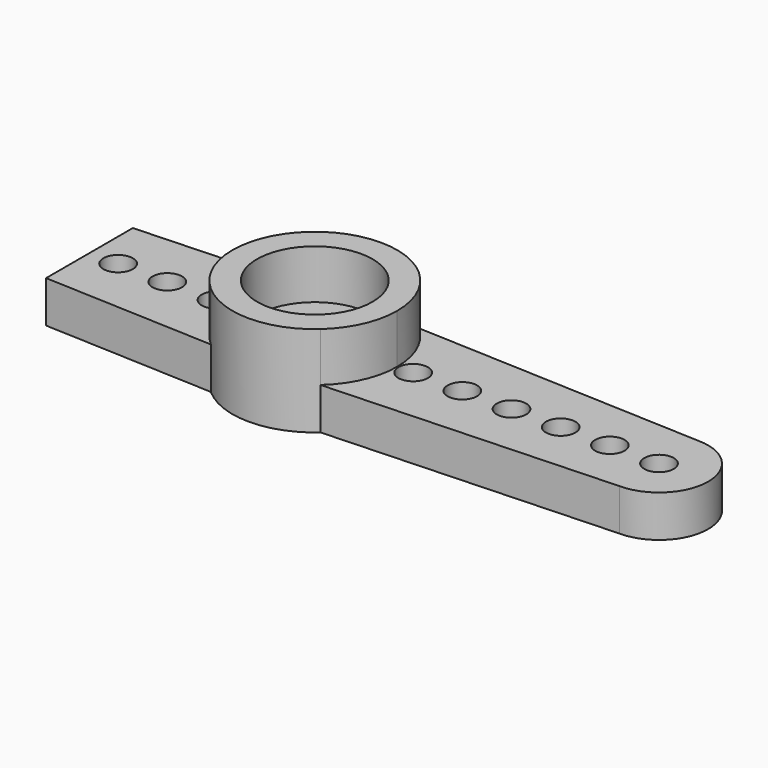
from build123d import *

# Parameters (mm, degrees)
F0_R     = 0.6
F1_DEPTH = 1.7
F3_DEPTH = 2
F5_DEPTH = 1
F6_R     = 1.1
F7_DEPTH = 2.701
F8_R     = 2.35
F8_R_2   = 1.1
F9_DEPTH = 2


with BuildPart() as f1:
    # F0 (on Top) → F1 (new body)
    with BuildSketch(Plane.XY):
        with BuildLine():
            ThreePointArc((2.2299103121, -2.5), (3.057180036, -1.369726333), (3.35, 0))
            ThreePointArc((3.35, 0), (3.057180036, 1.369726333), (2.2299103121, 2.5))
            ThreePointArc((2.2299103121, 2.5), (0, 3.35), (-2.2299103121, 2.5))
            ThreePointArc((-2.2299103121, 2.5), (-3.35, 0), (-2.2299103121, -2.5))
            ThreePointArc((-2.2299103121, -2.5), (0, -3.35), (2.2299103121, -2.5))
        make_face()
        with BuildLine():
            ThreePointArc((2.2299103121, 2.5), (3.057180036, 1.369726333), (3.35, 0))
            ThreePointArc((3.35, 0), (3.057180036, -1.369726333), (2.2299103121, -2.5))
            Line((2.2299103121, -2.5), (14, -2))
            ThreePointArc((14, -2), (16, 0), (14, 2))
            Line((14, 2), (2.2299103121, 2.5))
        make_face()
        with Locations((4, 0)):
            Circle(F0_R, mode=Mode.SUBTRACT)
        with Locations((6, 0)):
            Circle(F0_R, mode=Mode.SUBTRACT)
        with Locations((8, 0)):
            Circle(F0_R, mode=Mode.SUBTRACT)
        with Locations((10, 0)):
            Circle(F0_R, mode=Mode.SUBTRACT)
        with Locations((12, 0)):
            Circle(F0_R, mode=Mode.SUBTRACT)
        with Locations((14, 0)):
            Circle(F0_R, mode=Mode.SUBTRACT)
        with BuildLine():
            ThreePointArc((-2.2299103121, -2.5), (-3.35, 0), (-2.2299103121, 2.5))
            Line((-2.2299103121, 2.5), (-9.1662129992, 2.2053419782))
            Line((-9.1662129992, 2.2053419782), (-9.1662129992, -2.2053419782))
            Line((-9.1662129992, -2.2053419782), (-2.2299103121, -2.5))
        make_face()
        with Locations((-8, 0)):
            Circle(F0_R, mode=Mode.SUBTRACT)
        with Locations((-6, 0)):
            Circle(F0_R, mode=Mode.SUBTRACT)
        with Locations((-4, 0)):
            Circle(F0_R, mode=Mode.SUBTRACT)
    extrude(amount=F1_DEPTH)

    # F2 (on face) → F3 (join)
    with BuildSketch(Plane.XY.offset(1.7)):
        with BuildLine():
            ThreePointArc((2.2299103121, -2.5), (3.057180036, -1.369726333), (3.35, 0))
            ThreePointArc((3.35, 0), (3.057180036, 1.369726333), (2.2299103121, 2.5))
            ThreePointArc((2.2299103121, 2.5), (0, 3.35), (-2.2299103121, 2.5))
            ThreePointArc((-2.2299103121, 2.5), (-3.35, 0), (-2.2299103121, -2.5))
            ThreePointArc((-2.2299103121, -2.5), (0, -3.35), (2.2299103121, -2.5))
        make_face()
    extrude(amount=F3_DEPTH)

    # F4 (on face) → F5 (cut)
    with BuildSketch(Plane(origin=(0, 0, 0), x_dir=(1, 0, 0), z_dir=(0, 0, -1))):
        with BuildLine():
            ThreePointArc((1.5642654428, 1.7537313433), (-2.35, 0), (1.5642654428, -1.7537313433))
            ThreePointArc((1.5642654428, -1.7537313433), (2.35, 0), (1.5642654428, 1.7537313433))
        make_face()
    extrude(amount=-F5_DEPTH, mode=Mode.SUBTRACT)

    # F6 (on face) → F7 (cut, through all)
    with BuildSketch(Plane(origin=(0, 0, 1), x_dir=(1, 0, 0), z_dir=(0, 0, -1))):
        Circle(F6_R)
    extrude(amount=-F7_DEPTH, mode=Mode.SUBTRACT)

    # F8 (on face) → F9 (cut, through all)
    with BuildSketch(Plane.XY.offset(3.7)):
        Circle(F8_R)
        Circle(F8_R_2, mode=Mode.SUBTRACT)
    extrude(amount=-F9_DEPTH, mode=Mode.SUBTRACT)


solid = f1.part
